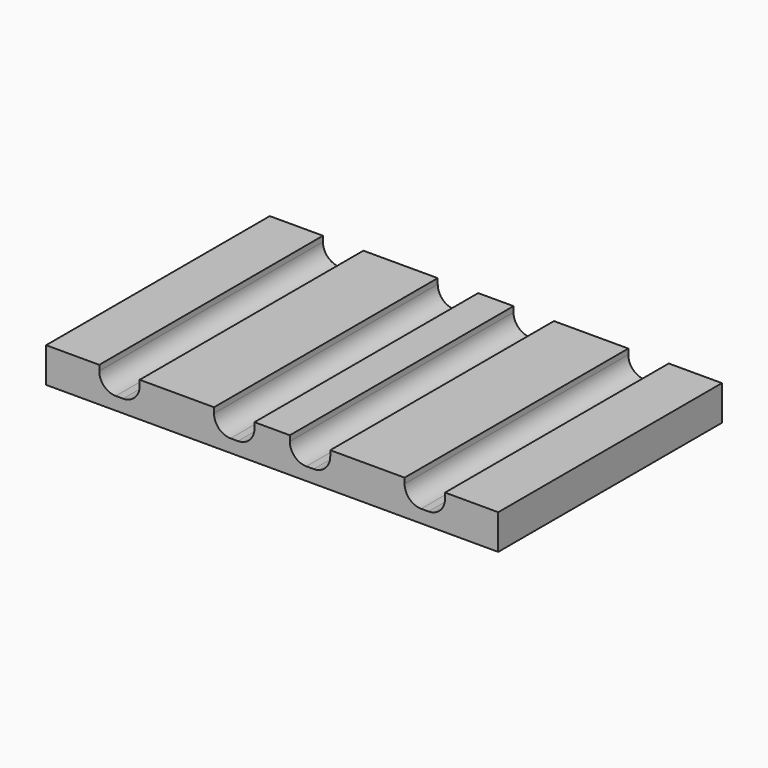
from build123d import *

# Parameters (mm, degrees)
F1_DEPTH = 50.8


with BuildPart() as f1:
    # F0 (on Front) → F1 (new body)
    with BuildSketch(Plane.XZ):
        with BuildLine():
            Line((-31.4099, 74.034357), (-41.0718, 74.034357))
            Line((-41.0718, 74.034357), (-41.0718, 67.684357))
            Line((-41.0718, 67.684357), (41.0718, 67.684357))
            Line((41.0718, 67.684357), (41.0718, 74.034357))
            Line((41.0718, 74.034357), (31.4099, 74.034357))
            Line((31.4099, 74.034357), (31.4099, 73.034357))
            ThreePointArc((31.4099, 73.034357), (30.53122, 70.913037), (28.4099, 70.034357))
            Line((28.4099, 70.034357), (27.0637, 70.034357))
            ThreePointArc((27.0637, 70.034357), (24.94238, 70.913037), (24.0637, 73.034357))
            Line((24.0637, 73.034357), (24.0637, 74.034357))
            Line((24.0637, 74.034357), (10.5565, 74.034357))
            Line((10.5565, 74.034357), (10.5565, 73.924565))
            Line((10.5565, 73.924565), (10.5565, 73.034357))
            ThreePointArc((10.5565, 73.034357), (9.67782, 70.913037), (7.5565, 70.034357))
            Line((7.5565, 70.034357), (6.2103, 70.034357))
            ThreePointArc((6.2103, 70.034357), (4.08898, 70.913037), (3.2103, 73.034357))
            Line((3.2103, 73.034357), (3.2103, 74.034357))
            Line((3.2103, 74.034357), (-3.2103, 74.034357))
            Line((-3.2103, 74.034357), (-3.2103, 73.034357))
            ThreePointArc((-3.2103, 73.034357), (-4.08898, 70.913037), (-6.2103, 70.034357))
            Line((-6.2103, 70.034357), (-7.5565, 70.034357))
            ThreePointArc((-7.5565, 70.034357), (-9.67782, 70.913037), (-10.5565, 73.034357))
            Line((-10.5565, 73.034357), (-10.5565, 74.034357))
            Line((-10.5565, 74.034357), (-24.0637, 74.034357))
            Line((-24.0637, 74.034357), (-24.0637, 73.924565))
            Line((-24.0637, 73.924565), (-24.0637, 73.034357))
            ThreePointArc((-24.0637, 73.034357), (-24.94238, 70.913037), (-27.0637, 70.034357))
            Line((-27.0637, 70.034357), (-28.4099, 70.034357))
            ThreePointArc((-28.4099, 70.034357), (-30.53122, 70.913037), (-31.4099, 73.034357))
            Line((-31.4099, 73.034357), (-31.4099, 74.034357))
        make_face()
    extrude(amount=F1_DEPTH)


solid = f1.part
